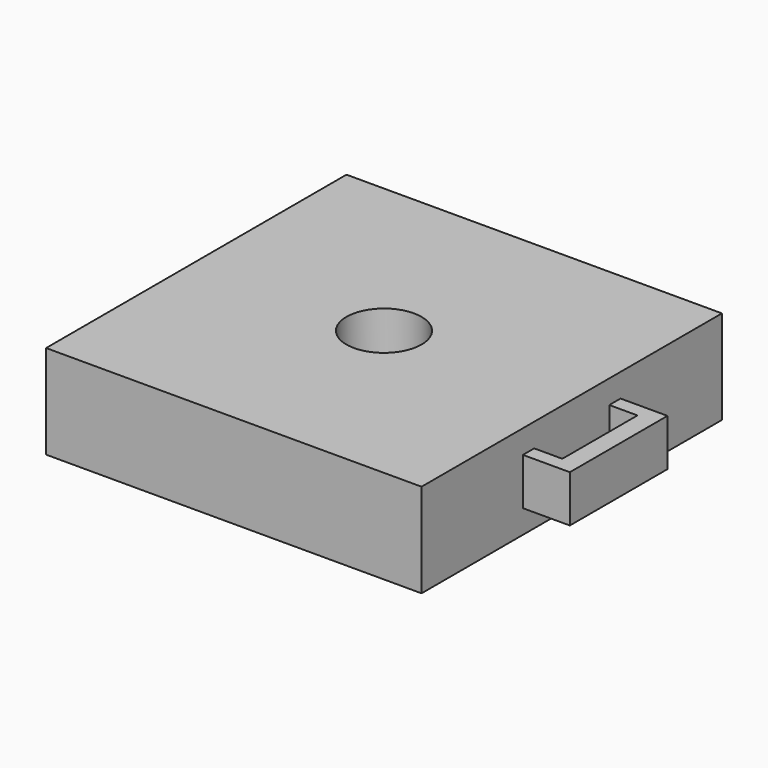
from build123d import *

# Parameters (mm, degrees)
F0_W     = 40
F0_H     = 40
F1_DEPTH = 10
F2_R     = 4
F3_DEPTH = 10.001
F4_W     = 1.5
F4_H     = 5
F5_DEPTH = 3
F6_W     = 13
F6_H     = 5
F7_DEPTH = 2


with BuildPart() as f1:
    # F0 (on Top) → F1 (new body)
    with BuildSketch(Plane.XY):
        with Locations((20, -20)):
            Rectangle(F0_W, F0_H)
    extrude(amount=F1_DEPTH)

    # F2 (on face) → F3 (cut, through all)
    with BuildSketch(Plane.XY.offset(10)):
        with Locations((20, -20)):
            Circle(F2_R)
    extrude(amount=-F3_DEPTH, mode=Mode.SUBTRACT)

    # F4 (on face) → F5 (join)
    with BuildSketch(Plane.YZ.offset(40)):
        with Locations((-25.75, 5)):
            Rectangle(F4_W, F4_H)
        with Locations((-14.25, 5)):
            Rectangle(F4_W, F4_H)
    extrude(amount=F5_DEPTH)

    # F6 (on face) → F7 (join)
    with BuildSketch(Plane.YZ.offset(43)):
        with Locations((-20, 5)):
            Rectangle(F6_W, F6_H)
    extrude(amount=F7_DEPTH)


solid = f1.part
